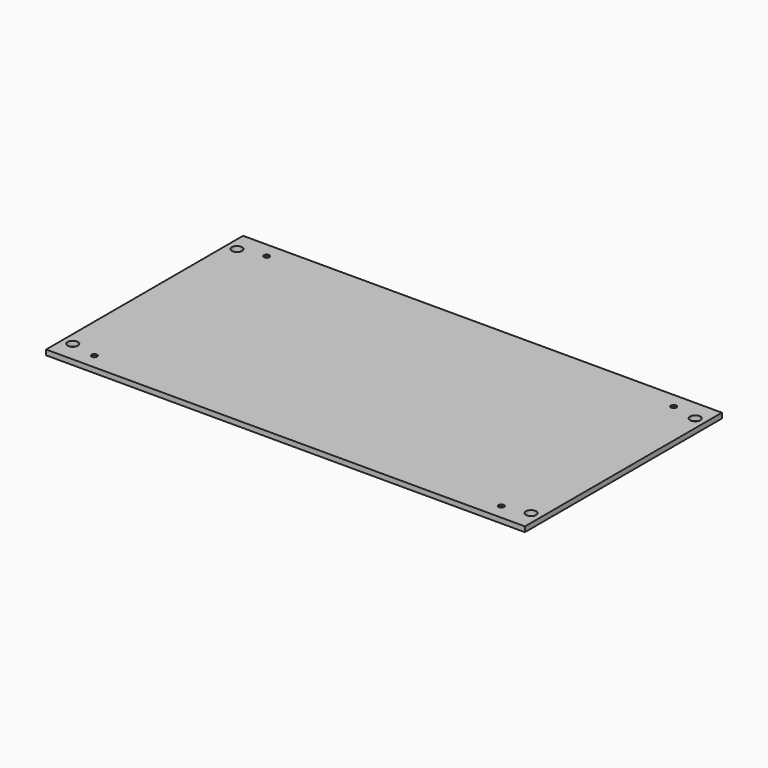
from build123d import *

# Parameters (mm, degrees)
F0_W     = 406.4
F0_H     = 228.6
F0_W_2   = 396.875
F0_H_2   = 219.075
F0_W_3   = 19.05
F0_R     = 4.7625
F0_W_4   = 12.7
F0_H_3   = 12.7
F0_R_2   = 2.5781
F1_DEPTH = 4.7752
F2_SIZE  = 3.81


with BuildPart() as f1:
    # F0 (on Top) → F1 (new body)
    with BuildSketch(Plane.XY):
        with Locations((-22.290767, 9.43711)):
            Rectangle(F0_W, F0_H)
        with Locations((-22.278067, 9.43711)):
            Rectangle(F0_W_2, F0_H_2, mode=Mode.SUBTRACT)
        with Locations((-235.015767, 9.43711)):
            Rectangle(F0_W_3, F0_H)
        with Locations((-235.015767, -85.81289)):
            Circle(F0_R, mode=Mode.SUBTRACT)
        with Locations((-235.015767, 104.68711)):
            Circle(F0_R, mode=Mode.SUBTRACT)
        with Locations((190.434233, 9.43711)):
            Rectangle(F0_W_3, F0_H)
        with Locations((190.434233, -85.81289)):
            Circle(F0_R, mode=Mode.SUBTRACT)
        with Locations((190.434233, 104.68711)):
            Circle(F0_R, mode=Mode.SUBTRACT)
        with Locations((-22.278067, 9.43711)):
            Rectangle(F0_W_2, F0_H_2)
        with Locations((-211.190567, -90.57539)):
            Rectangle(F0_W_4, F0_H_3, mode=Mode.SUBTRACT)
        with Locations((166.634433, -90.57539)):
            Rectangle(F0_W_4, F0_H_3, mode=Mode.SUBTRACT)
        with Locations((-211.190567, 109.44961)):
            Rectangle(F0_W_4, F0_H_3, mode=Mode.SUBTRACT)
        with Locations((166.634433, 109.44961)):
            Rectangle(F0_W_4, F0_H_3, mode=Mode.SUBTRACT)
        with Locations((-211.190567, 109.44961)):
            Rectangle(F0_W_4, F0_H_3)
        with Locations((-211.190567, 109.44961)):
            Circle(F0_R_2, mode=Mode.SUBTRACT)
        with Locations((-211.190567, -90.57539)):
            Rectangle(F0_W_4, F0_H_3)
        with Locations((-211.190567, -90.57539)):
            Circle(F0_R_2, mode=Mode.SUBTRACT)
        with Locations((166.634433, -90.57539)):
            Rectangle(F0_W_4, F0_H_3)
        with Locations((166.634433, -90.57539)):
            Circle(F0_R_2, mode=Mode.SUBTRACT)
        with Locations((166.634433, 109.44961)):
            Rectangle(F0_W_4, F0_H_3)
        with Locations((166.634433, 109.44961)):
            Circle(F0_R_2, mode=Mode.SUBTRACT)
    extrude(amount=F1_DEPTH)

    # F2
    f2_edges = [f1.edges().sort_by_distance(p)[0] for p in [
        (-213.768667, -90.57539, 0),
        (164.056333, -90.57539, 0),
        (164.056333, 109.44961, 0),
        (-213.768667, 109.44961, 0),
    ]]
    chamfer(f2_edges, length=F2_SIZE)


solid = f1.part
